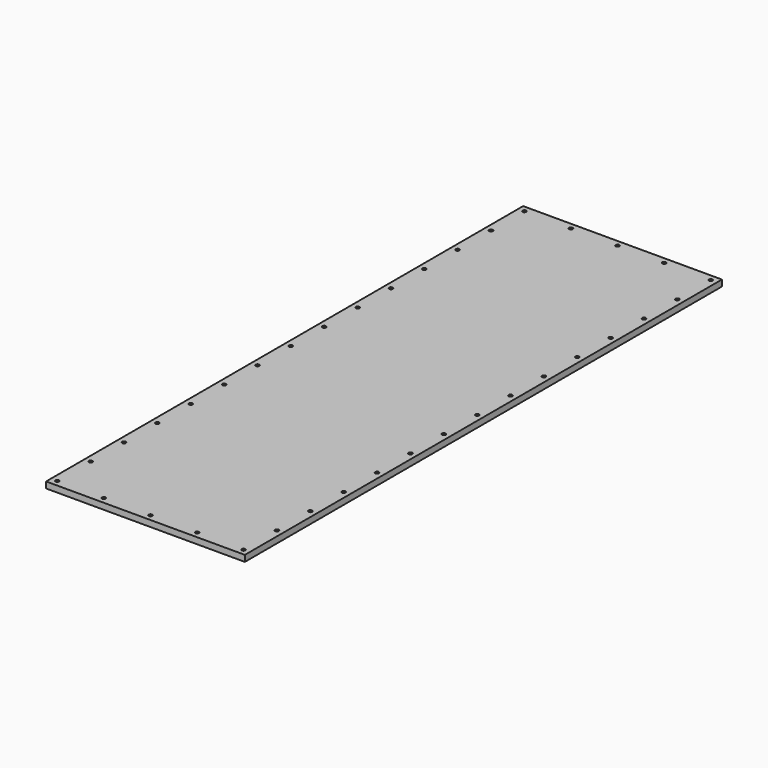
from build123d import *

# Parameters (mm, degrees)
F0_W           = 609.6
F0_H           = 1828.8
F1_DEPTH       = 19.05
F3_D           = 5
F3_CSINK_D     = 11.2
F3_CSINK_ANGLE = 90


with BuildPart() as f1:
    # F0 (on Top) → F1 (new body)
    with BuildSketch(Plane.XY):
        with Locations((304.8, 914.4)):
            Rectangle(F0_W, F0_H)
    extrude(amount=F1_DEPTH)

    # F3 (through all)
    with Locations(Plane.XY.offset(19.05)):
        with Locations((19.05, 1809.75), (161.925, 1809.75), (304.8, 1809.75), (447.675, 1809.75), (590.55, 1809.75), (590.55, 1681.8428571429), (590.55, 1553.9357142857), (590.55, 1426.0285714286), (590.55, 1170.2142857143), (590.55, 1042.3071428571), (590.55, 914.4), (590.55, 1298.1214285714), (590.55, 786.4928571429), (590.55, 658.5857142857), (590.55, 530.6785714286), (590.55, 402.7714285714), (590.55, 274.8642857143), (590.55, 146.9571428571), (590.55, 19.05), (447.675, 19.05), (304.8, 19.05), (161.925, 19.05), (19.05, 19.05), (19.05, 146.9571428571), (19.05, 274.8642857143), (19.05, 402.7714285714), (19.05, 530.6785714286), (19.05, 658.5857142857), (19.05, 786.4928571429), (19.05, 914.4), (19.05, 1042.3071428571), (19.05, 1170.2142857143), (19.05, 1298.1214285714), (19.05, 1426.0285714286), (19.05, 1553.9357142857), (19.05, 1681.8428571429)):
            CounterSinkHole(F3_D / 2, F3_CSINK_D / 2, counter_sink_angle=F3_CSINK_ANGLE)


solid = f1.part
